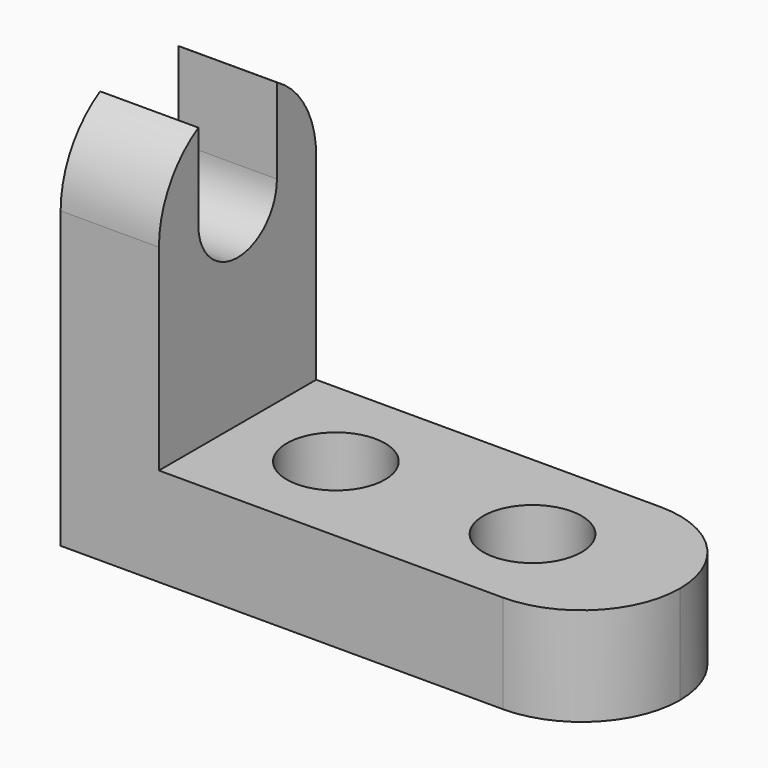
from build123d import *

# Parameters (mm, degrees)
F1_DEPTH = 25.4
F2_R     = 6.35
F3_DEPTH = 25.4
F5_DEPTH = 25.4
F7_DEPTH = 25.4


with BuildPart() as f1:
    # F0 (on Front) → F1 (new body)
    with BuildSketch(Plane.XZ):
        Polygon((12.7, 50.8), (0, 50.8), (0, 0), (69.85, 0), (69.85, 12.7), (12.7, 12.7), align=None)
    extrude(amount=F1_DEPTH)

    # F2 (on face) → F3 (cut)
    with BuildSketch(Plane.XY.offset(12.7)):
        with Locations((25.4, -12.7)):
            Circle(F2_R)
        with BuildLine():
            Line((69.85, -25.4), (69.85, -12.7))
            ThreePointArc((69.85, -12.7), (66.1302561211, -21.6802561211), (57.15, -25.4))
            Line((57.15, -25.4), (69.85, -25.4))
        make_face()
        with Locations((50.8, -12.7)):
            Circle(F2_R)
        with BuildLine():
            Line((69.85, 0), (57.15, 0))
            ThreePointArc((57.15, 0), (66.1302561211, -3.7197438789), (69.85, -12.7))
            Line((69.85, -12.7), (69.85, 0))
        make_face()
    extrude(amount=-F3_DEPTH, mode=Mode.SUBTRACT)

    # F4 (on face) → F5 (cut)
    with BuildSketch(Plane.YZ.offset(12.7)):
        with BuildLine():
            Line((0, 38.1), (0, 39.259262383))
            Line((0, 39.259262383), (0, 50.8))
            Line((0, 50.8), (-12.7, 50.8))
            ThreePointArc((-12.7, 50.8), (-3.7197438789, 47.0802561211), (0, 38.1))
        make_face()
        with BuildLine():
            ThreePointArc((-25.4, 38.1), (-21.6802561211, 47.0802561211), (-12.7, 50.8))
            Line((-12.7, 50.8), (-25.4, 50.8))
            Line((-25.4, 50.8), (-25.4, 39.259262383))
            Line((-25.4, 39.259262383), (-25.4, 38.1))
        make_face()
    extrude(amount=-F5_DEPTH, mode=Mode.SUBTRACT)

    # F6 (on face) → F7 (cut)
    with BuildSketch(Plane.YZ.offset(12.7)):
        with BuildLine():
            Line((-19.0331310429, 38.5625485848), (-19.0331310429, 37.6374514152))
            ThreePointArc((-19.0331310429, 37.6374514152), (-12.4685719577, 31.7542186406), (-6.35, 38.1))
            ThreePointArc((-6.35, 38.1), (-12.4685719577, 44.4457813594), (-19.0331310429, 38.5625485848))
        make_face()
        with BuildLine():
            ThreePointArc((-19.0331310429, 38.5625485848), (-12.4685719577, 44.4457813594), (-6.35, 38.1))
            Line((-6.35, 38.1), (-6.35, 49.0985226281))
            ThreePointArc((-6.35, 49.0985226281), (-12.6902650085, 50.7999962689), (-19.0331310429, 49.1082446917))
            Line((-19.0331310429, 49.1082446917), (-19.0331310429, 38.5625485848))
        make_face()
    extrude(amount=-F7_DEPTH, mode=Mode.SUBTRACT)


solid = f1.part
